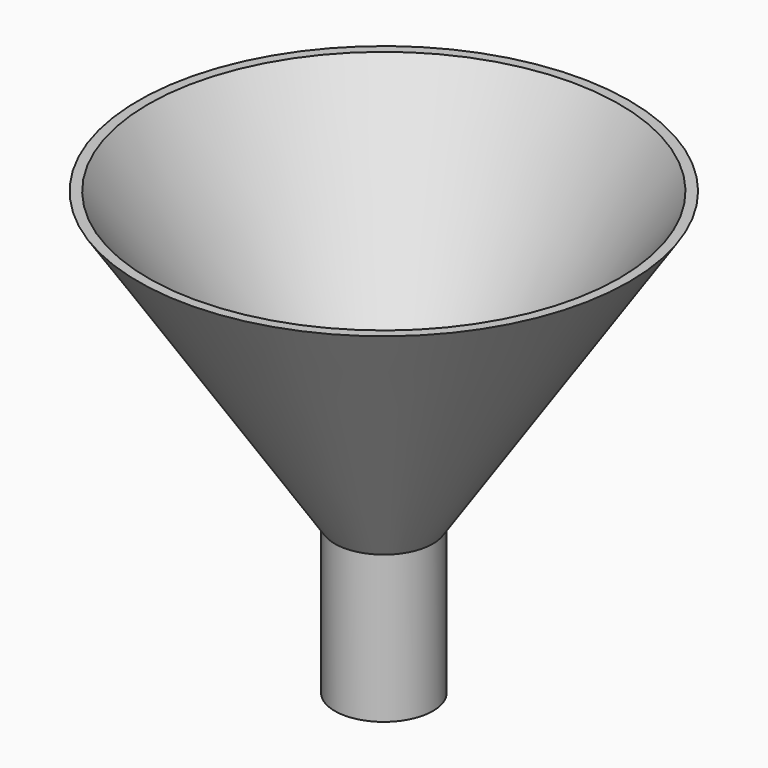
from build123d import *

# Parameters (mm, degrees)
CYLINDER001_R     = 4
CYLINDER001_DEPTH = 15
CYLINDER_R        = 5
CYLINDER_DEPTH    = 15


with BuildPart() as cone001:
    # Cone001 → Cone001 (revolve)
    with BuildSketch(Plane.XZ):
        Polygon((0, 0), (4, 0), (24, 30), (0, 30), align=None)
    revolve(axis=Axis((0, 0, 0), (0, 0, 1)))


with BuildPart() as cut:
    # Cone → Cone (revolve)
    with BuildSketch(Plane.XZ):
        Polygon((0, 0), (5, 0), (25, 30), (0, 30), align=None)
    revolve(axis=Axis((0, 0, 0), (0, 0, 1)))

    # Cut: cut Cone001
    add(cone001.part, mode=Mode.SUBTRACT)


with BuildPart() as cut_1:
    # Cut placement: moved
    add(cut.part.moved(Location((0, 0, 15))))


with BuildPart() as cylinder001:
    # Cylinder001 → Cylinder001 (new body)
    with BuildSketch(Plane.XY):
        Circle(CYLINDER001_R)
    extrude(amount=CYLINDER001_DEPTH)


with BuildPart() as fusion:
    # Cylinder → Cylinder (new body)
    with BuildSketch(Plane.XY):
        Circle(CYLINDER_R)
    extrude(amount=CYLINDER_DEPTH)

    # Cut001: cut Cylinder001
    add(cylinder001.part, mode=Mode.SUBTRACT)

    # Fusion: union Cut
    add(cut_1.part)


solid = fusion.part
